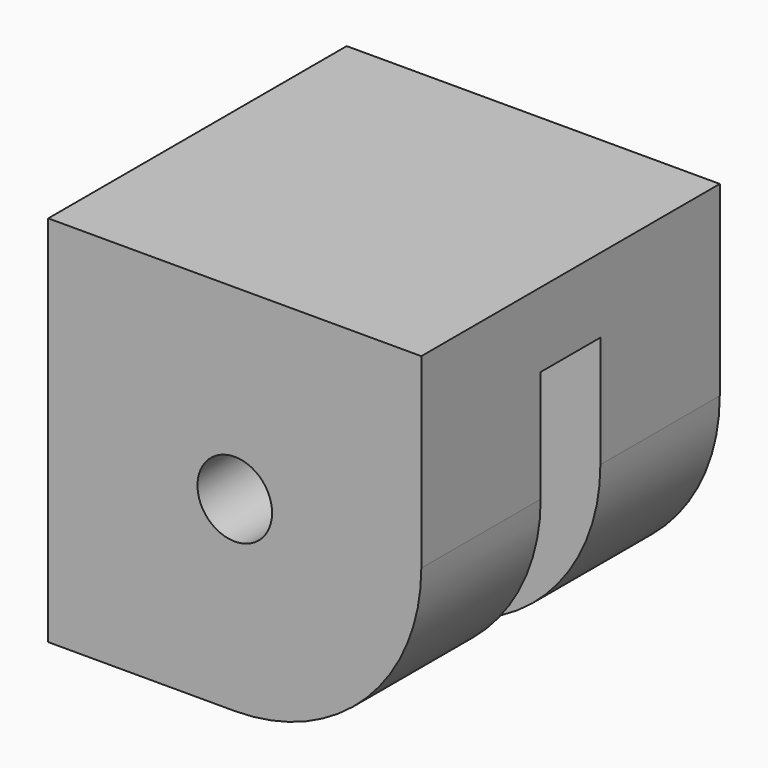
from build123d import *

# Parameters (mm, degrees)
F0_R     = 3.175
F1_DEPTH = 31.75
F2_W     = 15.875
F2_H     = 6.35
F2_W_2   = 9.525
F3_DEPTH = 25.4
F4_W     = 12.7
F4_H     = 1.5875
F5_DEPTH = 22.225


with BuildPart() as f1:
    # F0 (on Front) → F1 (new body)
    with BuildSketch(Plane.XZ):
        with BuildLine():
            Line((15.875, -15.875), (15.875, 0))
            Line((15.875, 0), (-15.875, 0))
            Line((-15.875, 0), (-15.875, -31.75))
            Line((-15.875, -31.75), (0, -31.75))
            ThreePointArc((0, -31.75), (11.22532, -27.10032), (15.875, -15.875))
        make_face()
        with Locations((0, -15.875)):
            Circle(F0_R, mode=Mode.SUBTRACT)
    extrude(amount=-F1_DEPTH)

    # F2 (on face) → F3 (cut)
    with BuildSketch(Plane(origin=(0, 0, -31.75), x_dir=(1, 0, 0), z_dir=(0, 0, -1))):
        with Locations((7.9375, -15.875)):
            Rectangle(F2_W, F2_H)
        with Locations((-4.7625, -15.875)):
            Rectangle(F2_W_2, F2_H)
    extrude(amount=-F3_DEPTH, mode=Mode.SUBTRACT)

    # F4 (on face) → F5 (cut)
    with BuildSketch(Plane(origin=(-15.875, 0, 0), x_dir=(0, -1, 0), z_dir=(-1, 0, 0))):
        with Locations((-15.875, -2.38125)):
            Rectangle(F4_W, F4_H)
    extrude(amount=-F5_DEPTH, mode=Mode.SUBTRACT)


solid = f1.part
